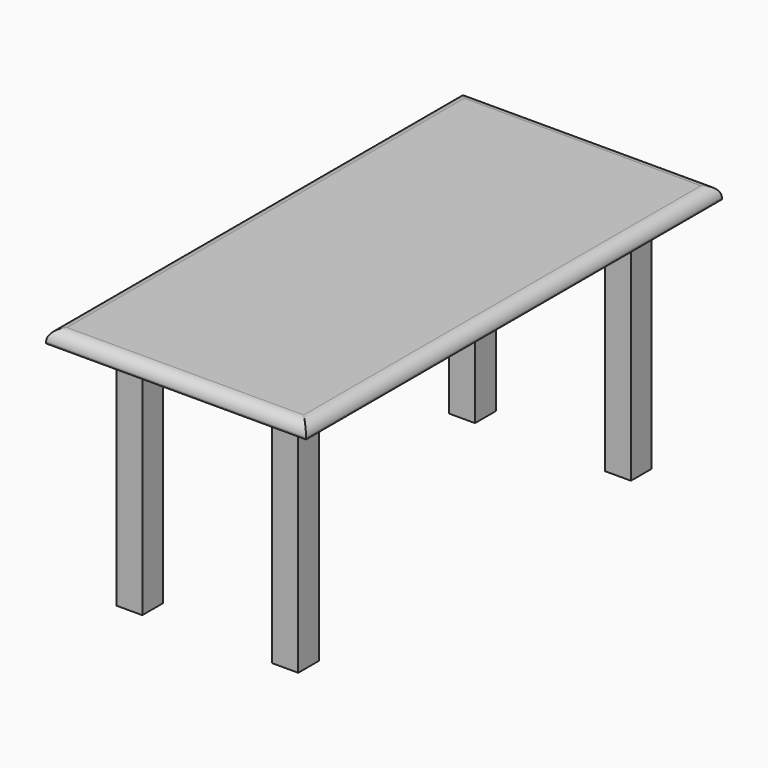
from build123d import *

# Parameters (mm, degrees)
SKETCH011_W             = 2000
SKETCH011_H             = 1000
PAD004_DEPTH            = 50
SKETCH012_W             = 100
SKETCH012_H             = 100
PAD005_DEPTH            = 900
SKETCH013_W             = 100
SKETCH013_H             = 100
PAD006_DEPTH            = 900
SKETCH014_W             = 100
SKETCH014_H             = 100
PAD007_DEPTH            = 900
SKETCH015_W             = 100
SKETCH015_H             = 100
PAD008_DEPTH            = 900
FILLET010_R             = 45
BODY002_PLACEMENT_ANGLE = 90


with BuildPart() as part:
    # Sketch011 → Pad004 (new body)
    with BuildSketch(Plane.XY):
        with Locations((1000, 500)):
            Rectangle(SKETCH011_W, SKETCH011_H)
    extrude(amount=PAD004_DEPTH)

    # Sketch012 (on Face5 of Pad004) → Pad005 (join)
    with BuildSketch(Plane(origin=(0, 0, 0), x_dir=(1, 0, 0), z_dir=(0, 0, -1))):
        with Locations((200, -200)):
            Rectangle(SKETCH012_W, SKETCH012_H)
    extrude(amount=PAD005_DEPTH)

    # Sketch013 (on Face4 of Pad005) → Pad006 (join)
    with BuildSketch(Plane(origin=(0, 0, 0), x_dir=(1, 0, 0), z_dir=(0, 0, -1))):
        with Locations((1800, -200)):
            Rectangle(SKETCH013_W, SKETCH013_H)
    extrude(amount=PAD006_DEPTH)

    # Sketch014 (on Face4 of Pad006) → Pad007 (join)
    with BuildSketch(Plane(origin=(0, 0, 0), x_dir=(1, 0, 0), z_dir=(0, 0, -1))):
        with Locations((200, -800)):
            Rectangle(SKETCH014_W, SKETCH014_H)
    extrude(amount=PAD007_DEPTH)

    # Sketch015 (on Face4 of Pad007) → Pad008 (join)
    with BuildSketch(Plane(origin=(0, 0, 0), x_dir=(1, 0, 0), z_dir=(0, 0, -1))):
        with Locations((1800, -800)):
            Rectangle(SKETCH015_W, SKETCH015_H)
    extrude(amount=PAD008_DEPTH)

    # Fillet010
    fillet010_edges = [part.edges().sort_by_distance(p)[0] for p in [
        (1000, 0, 50),
        (2000, 500, 50),
        (1000, 1000, 50),
        (0, 500, 50),
    ]]
    fillet(fillet010_edges, radius=FILLET010_R)


with BuildPart() as part_1:
    # Body002 placement: moved
    add(part.part.moved(Location((2442, 3237, 778))).rotate(Axis((2442, 3237, 778), (0, 0, -1)), BODY002_PLACEMENT_ANGLE))


solid = part_1.part
